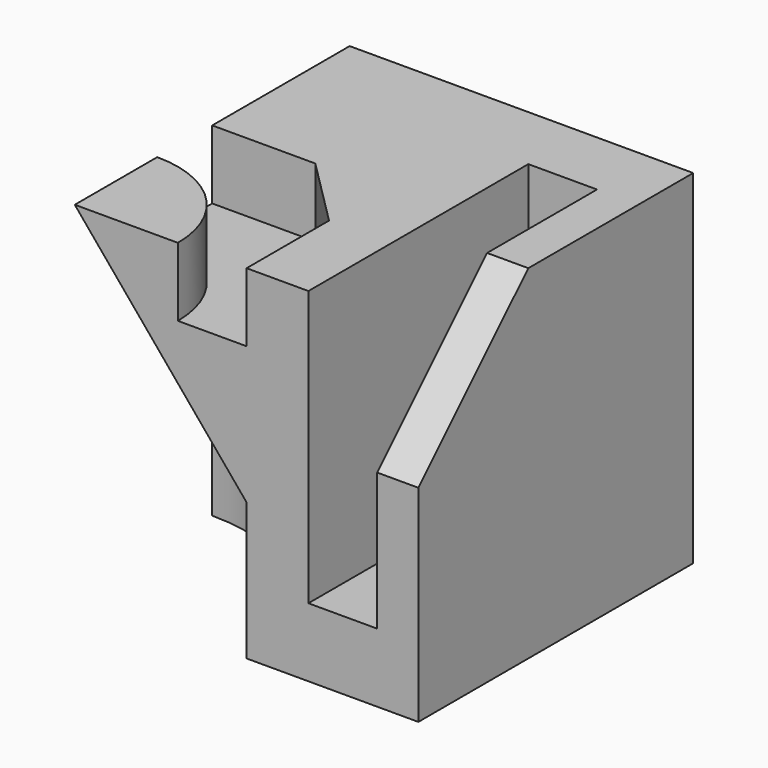
from build123d import *

# Parameters (mm, degrees)
F0_W      = 50
F0_H      = 50
F1_DEPTH  = 50
F2_W      = 10
F2_H      = 40
F3_DEPTH  = 40
F5_DEPTH  = 20
F6_W      = 6
F6_H      = 20
F11_R     = 10
F13_DEPTH = 10
F14_SIZE  = 10


with BuildPart() as f1:
    # F0 (on Top) → F1 (new body)
    with BuildSketch(Plane.XY):
        with Locations((25, 25)):
            Rectangle(F0_W, F0_H)
    extrude(amount=F1_DEPTH)

    # F2 (on face) → F3 (cut)
    with BuildSketch(Plane.XY.offset(50)):
        with Locations((39, 20)):
            Rectangle(F2_W, F2_H)
    extrude(amount=-F3_DEPTH, mode=Mode.SUBTRACT)

    # F4 (on face) → F5 (cut)
    with BuildSketch(Plane(origin=(0, 0, 0), x_dir=(1, 0, 0), z_dir=(0, 0, -1))):
        with BuildLine():
            ThreePointArc((0, -25), (17.6776695297, -17.6776695297), (25, 0))
            Line((25, 0), (0, 0))
            Line((0, 0), (0, -25))
        make_face()
    extrude(amount=-F5_DEPTH, mode=Mode.SUBTRACT)

    # F7 (on face) → F8 (revolve, cut)
    with BuildSketch(Plane.XZ):
        Polygon((25, 20), (0, 50), (0, 20), align=None)
    revolve(axis=Axis((0, 0, 35), (0, 0, -1)), mode=Mode.SUBTRACT)

    # F10: sweep along a path in F9
    with BuildLine(Plane.YZ.offset(50)) as f10_path:
        Line((20, 50), (0, 30))
    # F6 (on face) → F10 (sweep, cut)
    with BuildSketch(Plane.XY.offset(50)):
        with Locations((47, 10)):
            Rectangle(F6_W, F6_H)
    sweep(path=f10_path.line, mode=Mode.SUBTRACT)

    # F11
    f11_edges = [f1.edges().sort_by_distance(p)[0] for p in [
        (39, 40, 10),
    ]]
    fillet(f11_edges, radius=F11_R)

    # F12 (on face) → F13 (cut)
    with BuildSketch(Plane.XY.offset(50)):
        with BuildLine():
            ThreePointArc((0, 15), (10.6066017178, 10.6066017178), (15, 0))
            Line((15, 0), (25, 0))
            Line((25, 0), (25, 25))
            Line((25, 25), (0, 25))
            Line((0, 25), (0, 15))
        make_face()
    extrude(amount=-F13_DEPTH, mode=Mode.SUBTRACT)

    # F14
    f14_edges = [f1.edges().sort_by_distance(p)[0] for p in [
        (25, 25, 45),
    ]]
    chamfer(f14_edges, length=F14_SIZE)


solid = f1.part
